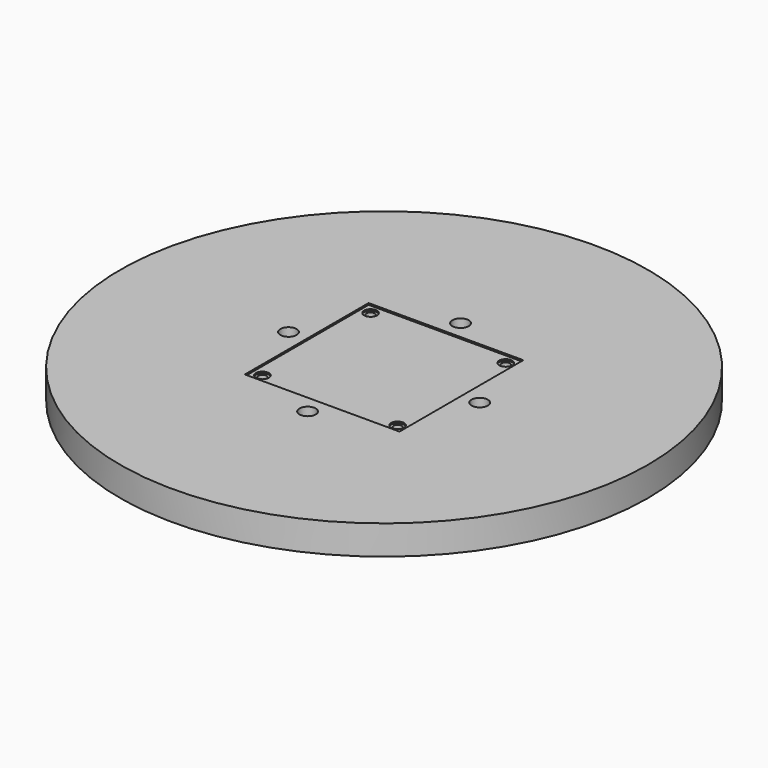
from build123d import *

# Parameters (mm, degrees)
SKETCH003_R      = 162.0844056183
PAD002_DEPTH     = 18
SKETCH009_W      = 95
SKETCH009_H      = 95
POCKET002_DEPTH  = 1
HOLE_D           = 5
HOLE_DEPTH       = 10
HOLE_CBORE_D     = 8
HOLE_CBORE_DEPTH = 1
SKETCH011_R      = 5
POCKET003_DEPTH  = 18.001


with BuildPart() as part:
    # Sketch003 → Pad002 (new body)
    with BuildSketch(Plane.XY):
        Circle(SKETCH003_R)
    extrude(amount=PAD002_DEPTH)

    # Sketch009 (on Face3 of Pad002) → Pocket002 (cut)
    with BuildSketch(Plane.XY.offset(18)):
        Rectangle(SKETCH009_W, SKETCH009_H)
    extrude(amount=-POCKET002_DEPTH, mode=Mode.SUBTRACT)

    # Hole
    with Locations(Plane.XY.offset(17)):
        with Locations((-41.5, 41.5), (41.5, 41.5), (-41.5, -41.5), (41.5, -41.5)):
            CounterBoreHole(HOLE_D / 2, HOLE_CBORE_D / 2, HOLE_CBORE_DEPTH, depth=HOLE_DEPTH)

    # Sketch011 (on Face3 of Hole) → Pocket003 (cut, through all)
    with BuildSketch(Plane.XY.offset(18)):
        with Locations((-58.6898628385, 0)):
            Circle(SKETCH011_R)
        with Locations((0, 58.6898628385)):
            Circle(SKETCH011_R)
        with Locations((58.6898628385, 0)):
            Circle(SKETCH011_R)
        with Locations((0, -58.6898628385)):
            Circle(SKETCH011_R)
    extrude(amount=-POCKET003_DEPTH, mode=Mode.SUBTRACT)


with BuildPart() as part_1:
    # Clone004 placement: moved
    add(part.part.moved(Location((0, 0, -24))))


solid = part_1.part
